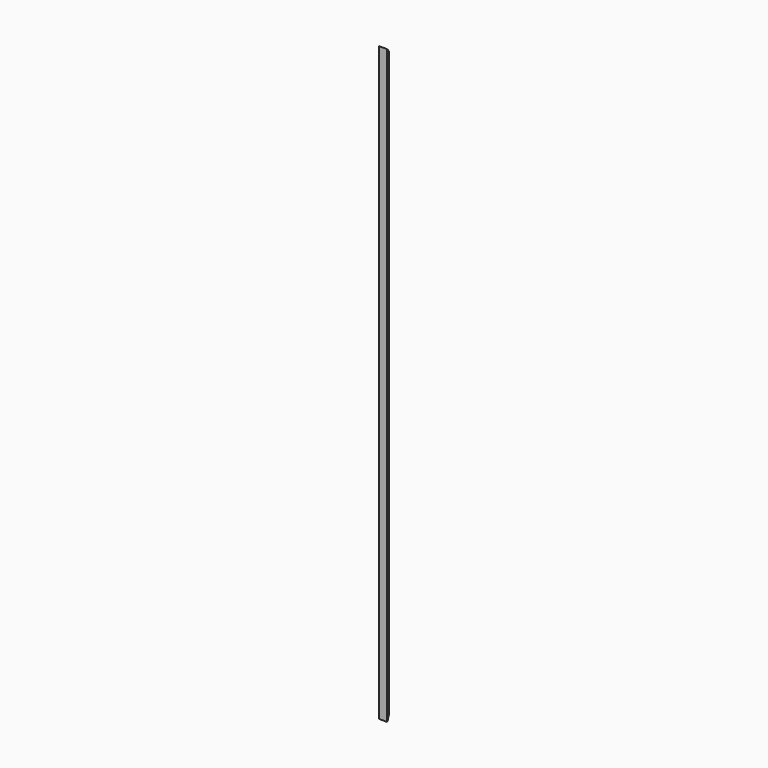
from build123d import *

# Parameters (mm, degrees)
F1_DEPTH = 1090
F3_DEPTH = 25


with BuildPart() as f1:
    # F0 (on Top) → F1 (new body)
    with BuildSketch(Plane.XY):
        with BuildLine():
            Line((0, 15), (0, 0))
            Line((0, 0), (15, 0))
            Line((15, 0), (15, 2))
            ThreePointArc((15, 2), (14.707107, 2.707107), (14, 3))
            Line((14, 3), (13.5, 3))
            ThreePointArc((13.5, 3), (10.424621, 10.424621), (3, 13.5))
            Line((3, 13.5), (3, 14))
            ThreePointArc((3, 14), (2.707107, 14.707107), (2, 15))
            Line((2, 15), (0, 15))
        make_face()
    extrude(amount=F1_DEPTH)

    # F2 (on face) → F3 (cut)
    with BuildSketch(Plane(origin=(0, 0, 0), x_dir=(0, -1, 0), z_dir=(-1, 0, 0))):
        Polygon((-15, 0), (0, 0), (-15, 15), align=None)
        Polygon((-15, 1075), (0, 1090), (-15, 1090), align=None)
    extrude(amount=-F3_DEPTH, mode=Mode.SUBTRACT)


solid = f1.part
